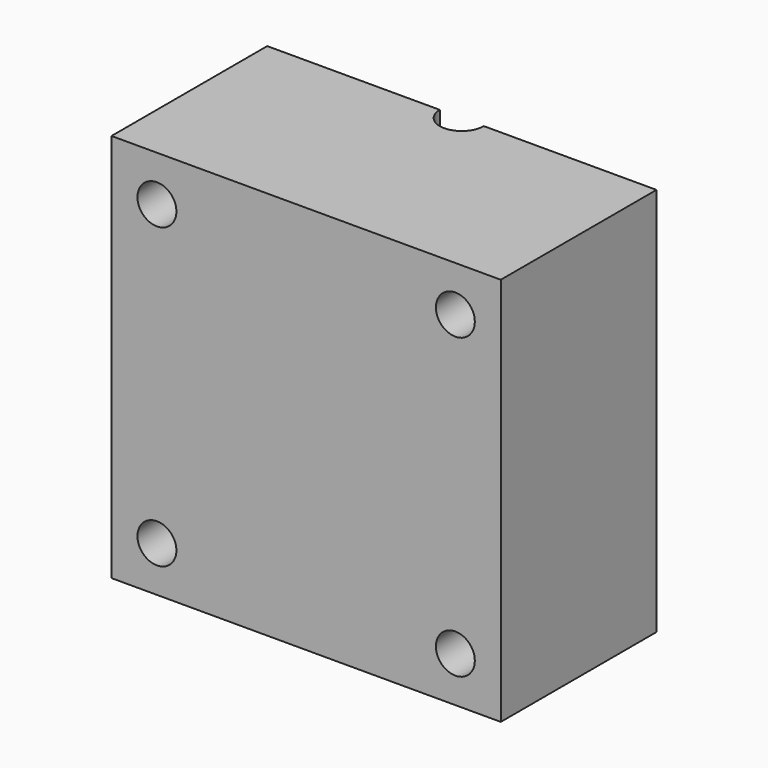
from build123d import *

# Parameters (mm, degrees)
F0_W      = 60
F0_H      = 30
F1_DEPTH  = 60
F2_R      = 3.4
F3_DEPTH  = 60.001
F4_R      = 1.8
F5_DEPTH  = 30.001
F6_R      = 3
F7_DEPTH  = 7
F8_R      = 3
F9_DEPTH  = 7
F10_R     = 3
F11_DEPTH = 7
F12_R     = 3
F13_DEPTH = 7


with BuildPart() as f1:
    # F0 (on Top) → F1 (new body)
    with BuildSketch(Plane.XY):
        Rectangle(F0_W, F0_H)
    extrude(amount=F1_DEPTH)

    # F2 (on face) → F3 (cut, through all)
    with BuildSketch(Plane.XY.offset(60)):
        with Locations((0, 15)):
            Circle(F2_R)
    extrude(amount=-F3_DEPTH, mode=Mode.SUBTRACT)

    # F4 (on face) → F5 (cut, through all)
    with BuildSketch(Plane.XZ.offset(15)):
        with Locations((-23, 53)):
            Circle(F4_R)
        with Locations((23, 53)):
            Circle(F4_R)
        with Locations((23, 7)):
            Circle(F4_R)
        with Locations((-23, 7)):
            Circle(F4_R)
    extrude(amount=-F5_DEPTH, mode=Mode.SUBTRACT)

    # F6 (on face) → F7 (cut)
    with BuildSketch(Plane.XZ.offset(15)):
        with Locations((-23, 53)):
            Circle(F6_R)
    extrude(amount=-F7_DEPTH, mode=Mode.SUBTRACT)

    # F8 (on face) → F9 (cut)
    with BuildSketch(Plane.XZ.offset(15)):
        with Locations((23, 53)):
            Circle(F8_R)
    extrude(amount=-F9_DEPTH, mode=Mode.SUBTRACT)

    # F10 (on face) → F11 (cut)
    with BuildSketch(Plane.XZ.offset(15)):
        with Locations((-23, 7)):
            Circle(F10_R)
    extrude(amount=-F11_DEPTH, mode=Mode.SUBTRACT)

    # F12 (on face) → F13 (cut)
    with BuildSketch(Plane.XZ.offset(15)):
        with Locations((23, 7)):
            Circle(F12_R)
    extrude(amount=-F13_DEPTH, mode=Mode.SUBTRACT)


solid = f1.part
